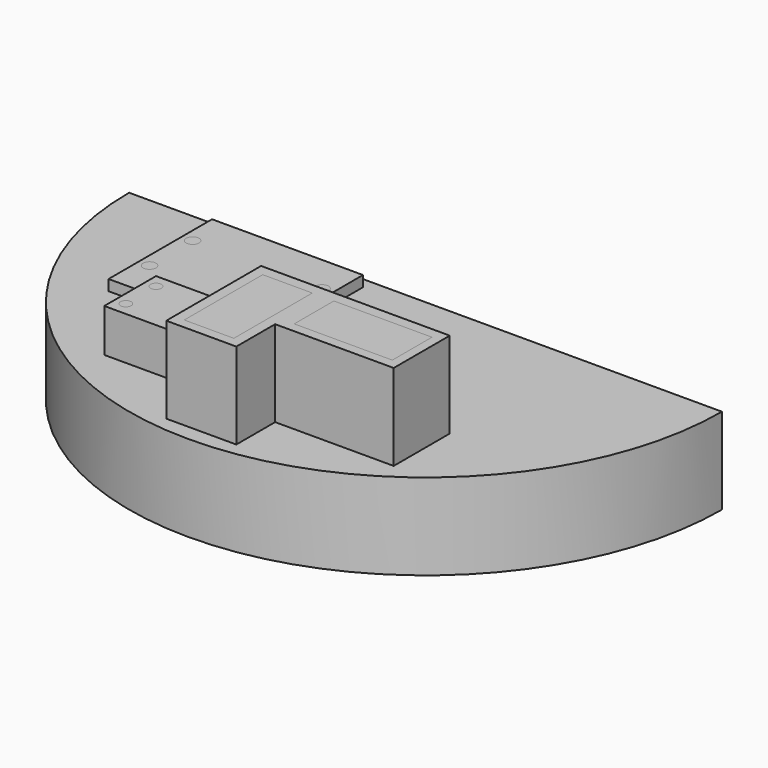
from build123d import *

# Parameters (mm, degrees)
EXTRUDE_DEPTH    = 8
EXTRUDE001_DEPTH = 6
SKETCH003_W      = 14
SKETCH003_H      = 12
EXTRUDE002_DEPTH = 1
SKETCH006_W      = 11
SKETCH006_H      = 6.5
SKETCH006_W_2    = 6.5
SKETCH006_H_2    = 11
EXTRUDE003_DEPTH = 8
SKETCH005_W      = 8
SKETCH005_H      = 6
EXTRUDE004_DEPTH = 4
SKETCH004_R      = 1.25
EXTRUDE005_DEPTH = 3
SKETCH007_R      = 0.6
EXTRUDE006_DEPTH = 3
SKETCH008_R      = 0.5
EXTRUDE007_DEPTH = 6
SKETCH009_W      = 4.6
SKETCH009_H      = 9.1
SKETCH009_W_2    = 9.1
SKETCH009_H_2    = 4.6
EXTRUDE008_DEPTH = 10


with BuildPart() as body:
    # Sketch001 → Extrude (new body)
    with BuildSketch(Plane.XY):
        with BuildLine():
            ThreePointArc((-27.5, 0), (0, -27.5), (27.5, 0))
            Line((-27.5, 0), (27.5, 0))
        make_face()
    extrude(amount=EXTRUDE_DEPTH)


with BuildPart() as body_cut:
    # Sketch002 → Extrude001 (new body)
    with BuildSketch(Plane.XY):
        with BuildLine():
            ThreePointArc((-25.5, 0), (0, -25.5), (25.5, 0))
            Line((-25.5, 0), (25.5, 0))
        make_face()
    extrude(amount=EXTRUDE001_DEPTH)


with BuildPart() as momentary_button:
    # Sketch003 → Extrude002 (new body)
    with BuildSketch(Plane.XY.offset(8)):
        with Locations((-12, -7)):
            Rectangle(SKETCH003_W, SKETCH003_H)
    extrude(amount=EXTRUDE002_DEPTH)


with BuildPart() as usb_ports001:
    # Sketch006 → Extrude003 (new body)
    with BuildSketch(Plane.XY.offset(8)):
        with Locations((8.75, -18.25)):
            Rectangle(SKETCH006_W, SKETCH006_H)
        with Locations((0, -20.5)):
            Rectangle(SKETCH006_W_2, SKETCH006_H_2)
    extrude(amount=EXTRUDE003_DEPTH)


with BuildPart() as obj1:
    # Sketch005 → Extrude004 (new body)
    with BuildSketch(Plane.XY.offset(8)):
        with Locations((-9, -18)):
            Rectangle(SKETCH005_W, SKETCH005_H)
    extrude(amount=EXTRUDE004_DEPTH)


with BuildPart() as obj2:
    # Sketch004 → Extrude005 (new body)
    with BuildSketch(Plane.XY.offset(8)):
        with Locations((2, -10)):
            Circle(SKETCH004_R)
        with Locations((2, -5)):
            Circle(SKETCH004_R)
    extrude(amount=-EXTRUDE005_DEPTH)


with BuildPart() as momentary_leads:
    # Sketch007 → Extrude006 (new body)
    with BuildSketch(Plane.XY.offset(9)):
        with Locations((-18, -9.5)):
            Circle(SKETCH007_R)
        with Locations((-18, -4.5)):
            Circle(SKETCH007_R)
        with Locations((-6, -9.5)):
            Circle(SKETCH007_R)
        with Locations((-6, -4.5)):
            Circle(SKETCH007_R)
    extrude(amount=-EXTRUDE006_DEPTH)


with BuildPart() as reset_leads:
    # Sketch008 → Extrude007 (new body)
    with BuildSketch(Plane.XY.offset(12)):
        with Locations((-12, -16.25)):
            Circle(SKETCH008_R)
        with Locations((-6, -19.75)):
            Circle(SKETCH008_R)
        with Locations((-6, -16.25)):
            Circle(SKETCH008_R)
        with Locations((-12, -19.75)):
            Circle(SKETCH008_R)
    extrude(amount=-EXTRUDE007_DEPTH)


with BuildPart() as extrude008:
    # Sketch009 → Extrude008 (new body)
    with BuildSketch(Plane.XY.offset(16)):
        with Locations((0, -20.55)):
            Rectangle(SKETCH009_W, SKETCH009_H)
        with Locations((8.85, -18.3)):
            Rectangle(SKETCH009_W_2, SKETCH009_H_2)
    extrude(amount=-EXTRUDE008_DEPTH)


solid = Compound([body.part, body_cut.part, momentary_button.part, usb_ports001.part, obj1.part, obj2.part, momentary_leads.part, reset_leads.part, extrude008.part])
